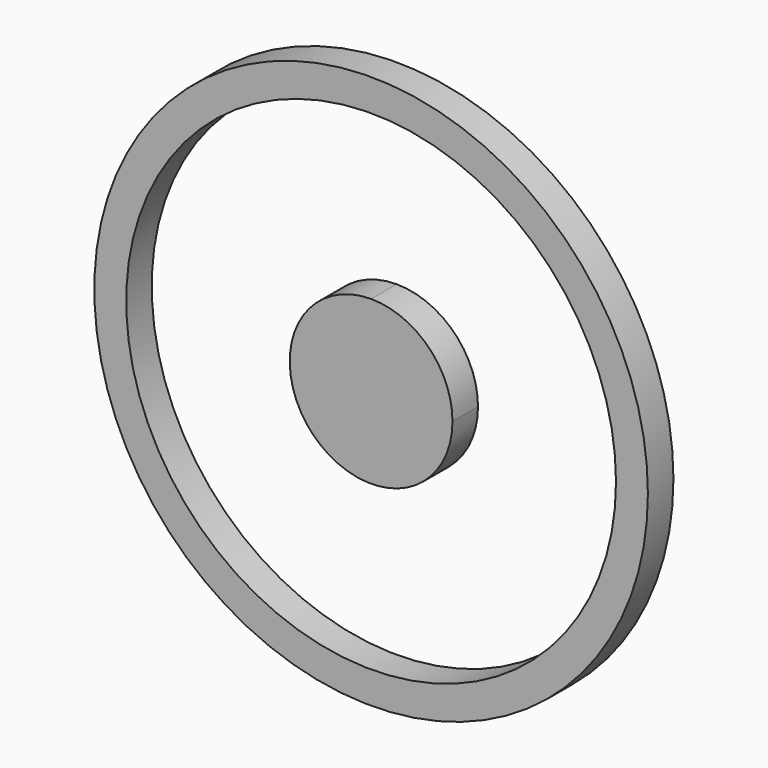
from build123d import *

# Parameters (mm, degrees)
F1_DEPTH = 2
F0_R     = 17.35
F0_R_2   = 15.35


with BuildPart() as f1:
    # F0 (on Front) → F1 (new body)
    with BuildSketch(Plane.XZ):
        with BuildLine():
            ThreePointArc((0, 5.1), (-3.6062445841, -3.6062445841), (5.1, 0))
            ThreePointArc((5.1, 0), (3.6062445841, 3.6062445841), (0, 5.1))
        make_face()
        with BuildLine():
            ThreePointArc((3, 0), (-2.1213203436, -2.1213203436), (0, 3))
            ThreePointArc((0, 3), (2.1213203436, 2.1213203436), (3, 0))
        make_face(mode=Mode.SUBTRACT)
        with BuildLine():
            ThreePointArc((3, 0), (2.1213203436, 2.1213203436), (0, 3))
            ThreePointArc((0, 3), (-2.1213203436, -2.1213203436), (3, 0))
        make_face()
    extrude(amount=F1_DEPTH)


with BuildPart() as f1b:
    # F0 (on Front) → F1, piece 2 (new body)
    with BuildSketch(Plane.XZ):
        Circle(F0_R)
        Circle(F0_R_2, mode=Mode.SUBTRACT)
    extrude(amount=F1_DEPTH)


solid = Compound([f1.part, f1b.part])
